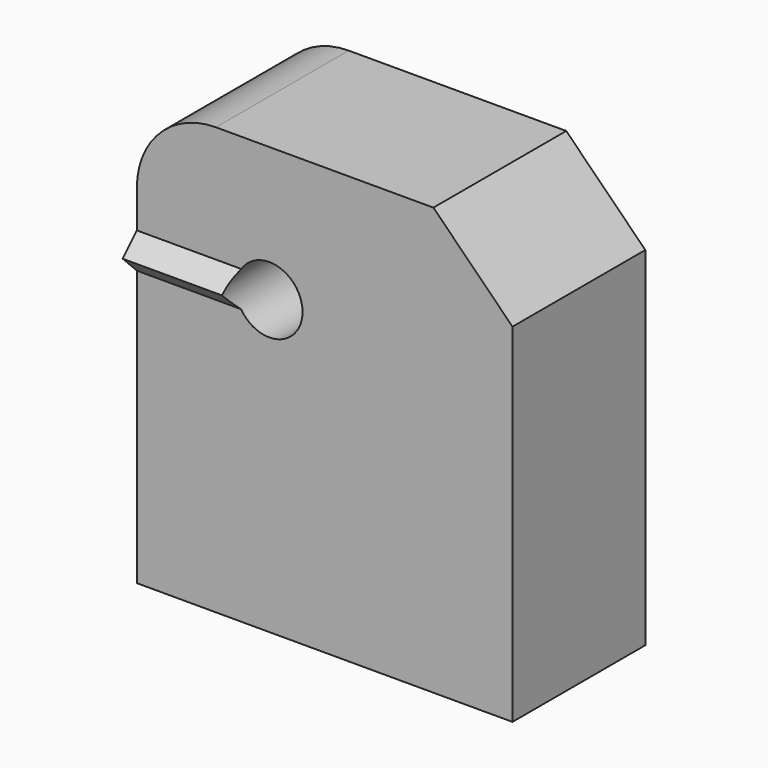
from build123d import *

# Parameters (mm, degrees)
CYLINDER013_R           = 3.7
CYLINDER013_DEPTH       = 10
CYLINDER013_PITCH_ANGLE = 90
CYLINDER012_R           = 2.2
CYLINDER012_DEPTH       = 50
CYLINDER012_PITCH_ANGLE = 90
CYLINDER011_R           = 6.7
CYLINDER011_DEPTH       = 70
CYLINDER011_ROLL_ANGLE  = 90
CYLINDER010_R           = 4.2
CYLINDER010_DEPTH       = 70
CYLINDER010_ROLL_ANGLE  = 90
BOX005009006_W          = 17
BOX005009006_H          = 4
BOX005009006_DEPTH      = 4
BOX005009006_ROLL_ANGLE = 45
BOX005007_W             = 47.5
BOX005007_H             = 21
BOX005007_DEPTH         = 54
FILLET002_R             = 10
CHAMFER007_SIZE         = 10


with BuildPart() as cylinder012:
    # Cylinder013 → Cylinder013 (new body)
    with BuildSketch(Plane.XY):
        Circle(CYLINDER013_R)
    extrude(amount=CYLINDER013_DEPTH)


with BuildPart() as cylinder012_1:
    # Cylinder013 pitch: moved
    add(cylinder012.part.rotate(Axis((0, 0, 0), (0, 1, 0)), CYLINDER013_PITCH_ANGLE))


with BuildPart() as cylinder012_2:
    # Cylinder013 placement: moved
    add(cylinder012_1.part.moved(Location((-15, 496, 2))))


with BuildPart() as cylinder:
    # Cylinder012 → Cylinder012 (new body)
    with BuildSketch(Plane.XY):
        Circle(CYLINDER012_R)
    extrude(amount=CYLINDER012_DEPTH)


with BuildPart() as cylinder_1:
    # Cylinder012 pitch: moved
    add(cylinder.part.rotate(Axis((0, 0, 0), (0, 1, 0)), CYLINDER012_PITCH_ANGLE))


with BuildPart() as cylinder_2:
    # Cylinder012 placement: moved
    add(cylinder_1.part.moved(Location((-12, 496, 2))))


with BuildPart() as m4_screw001:
    # Fusion006 base: copy of Cylinder
    add(cylinder_2.part)

    # Fusion006: union Cylinder012
    add(cylinder012_2.part)


with BuildPart() as m4_screw001_1:
    # Fusion006 placement: moved
    add(m4_screw001.part.moved(Location((0, 0, -9))))


with BuildPart() as fusion007:
    # Fusion005 base: copy of Cylinder
    add(cylinder_2.part)

    # Fusion005: union Cylinder012
    add(cylinder012_2.part)


with BuildPart() as fusion007_1:
    # Fusion005 placement: moved
    add(fusion007.part.moved(Location((0, 0, -30))))

    # Fusion007: union M4-screw001
    add(m4_screw001_1.part)


with BuildPart() as cylinder011:
    # Cylinder011 → Cylinder011 (new body)
    with BuildSketch(Plane.XY):
        Circle(CYLINDER011_R)
    extrude(amount=CYLINDER011_DEPTH)


with BuildPart() as cylinder011_1:
    # Cylinder011 roll: moved
    add(cylinder011.part.rotate(Axis((0, 0, 0), (1, 0, 0)), CYLINDER011_ROLL_ANGLE))


with BuildPart() as cylinder011_2:
    # Cylinder011 placement: moved
    add(cylinder011_1.part.moved(Location((7.75, 569, 2))))


with BuildPart() as cylinder010:
    # Cylinder010 → Cylinder010 (new body)
    with BuildSketch(Plane.XY):
        Circle(CYLINDER010_R)
    extrude(amount=CYLINDER010_DEPTH)


with BuildPart() as cylinder010_1:
    # Cylinder010 roll: moved
    add(cylinder010.part.rotate(Axis((0, 0, 0), (1, 0, 0)), CYLINDER010_ROLL_ANGLE))


with BuildPart() as cylinder010_2:
    # Cylinder010 placement: moved
    add(cylinder010_1.part.moved(Location((7.75, 531, 2))))


with BuildPart() as bracket_blank003:
    # Box005009006 → Box005009006 (new body)
    with BuildSketch(Plane.XY):
        with Locations((8.5, 2)):
            Rectangle(BOX005009006_W, BOX005009006_H)
    extrude(amount=BOX005009006_DEPTH)


with BuildPart() as bracket_blank003_1:
    # Box005009006 roll: moved
    add(bracket_blank003.part.rotate(Axis((0, 0, 0), (1, 0, 0)), BOX005009006_ROLL_ANGLE))


with BuildPart() as bracket_blank003_2:
    # Box005009006 placement: moved
    add(bracket_blank003_1.part.moved(Location((-9, 486.586, -0.8))))


with BuildPart() as bracket:
    # Box005007 → Box005007 (new body)
    with BuildSketch(Plane(origin=(-9, 486, -35), x_dir=(1, 0, 0), z_dir=(0, 0, 1))):
        with Locations((23.75, 10.5)):
            Rectangle(BOX005007_W, BOX005007_H)
    extrude(amount=BOX005007_DEPTH)

    # Fusion004: union bracket-blank003
    add(bracket_blank003_2.part)

    # Cut012: cut Cylinder010
    add(cylinder010_2.part, mode=Mode.SUBTRACT)

    # Cut013: cut Cylinder011
    add(cylinder011_2.part, mode=Mode.SUBTRACT)

    # Cut014: cut Fusion007
    add(fusion007_1.part, mode=Mode.SUBTRACT)

    # Fillet002
    fillet002_edges = [bracket.edges().sort_by_distance(p)[0] for p in [
        (-9, 496.5, 19),
    ]]
    fillet(fillet002_edges, radius=FILLET002_R)

    # Chamfer007
    chamfer007_edges = [bracket.edges().sort_by_distance(p)[0] for p in [
        (38.5, 496.5, 19),
    ]]
    chamfer(chamfer007_edges, length=CHAMFER007_SIZE)


solid = bracket.part
